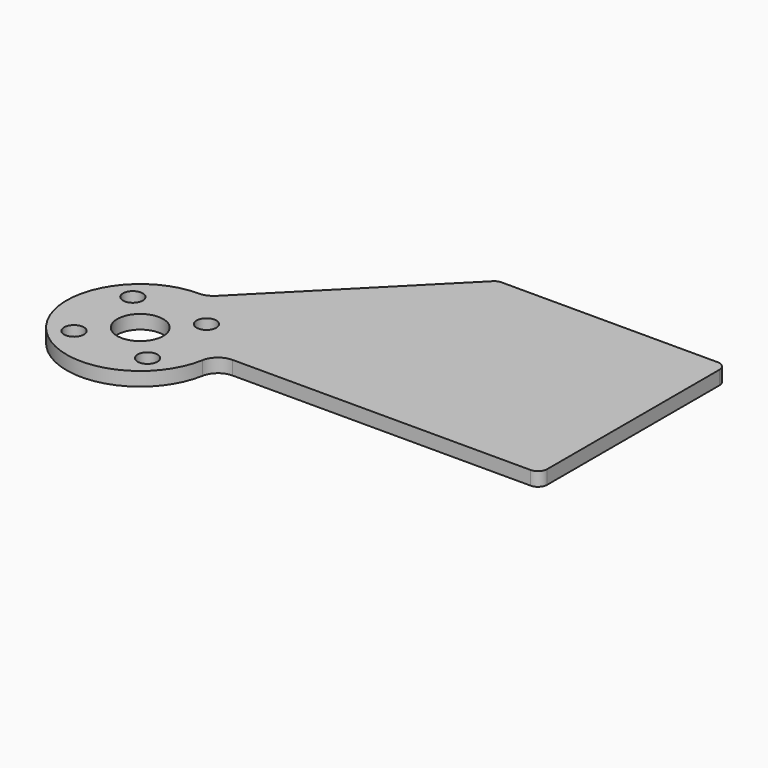
from build123d import *

# Parameters (mm, degrees)
SKETCH_R   = 2.15
SKETCH_R_2 = 5
PAD_DEPTH  = 3


with BuildPart() as part:
    # Sketch → Pad (new body)
    with BuildSketch(Plane.XY):
        with BuildLine():
            Line((36.7, 0.5), (84.5, 0.5))
            ThreePointArc((84.5, 0.5), (85.914214, 1.085786), (86.5, 2.5))
            Line((86.5, 2.5), (86.5, 49.3))
            ThreePointArc((86.5, 49.3), (85.914214, 50.714214), (84.5, 51.3))
            Line((84.5, 51.3), (37.532857, 51.3))
            ThreePointArc((37.532857, 51.3), (36.764001, 51.14631), (36.11331, 50.708861))
            Line((2.839092, 17.182278), (36.11331, 50.708861))
            ThreePointArc((0, 16), (1.537712, 16.30738), (2.839092, 17.182278))
            ThreePointArc((0, 16), (-12.263768, -10.276186), (15.753095, -2.8))
            ThreePointArc((19.691369, 0.5), (17.122322, -0.434058), (15.753095, -2.8))
            Line((36.7, 0.5), (19.691369, 0.5))
        make_face()
        with Locations((-8, 8)):
            Circle(SKETCH_R, mode=Mode.SUBTRACT)
        with Locations((8, 8)):
            Circle(SKETCH_R, mode=Mode.SUBTRACT)
        with Locations((-8, -8)):
            Circle(SKETCH_R, mode=Mode.SUBTRACT)
        with Locations((8, -8)):
            Circle(SKETCH_R, mode=Mode.SUBTRACT)
        Circle(SKETCH_R_2, mode=Mode.SUBTRACT)
    extrude(amount=PAD_DEPTH)


solid = part.part
